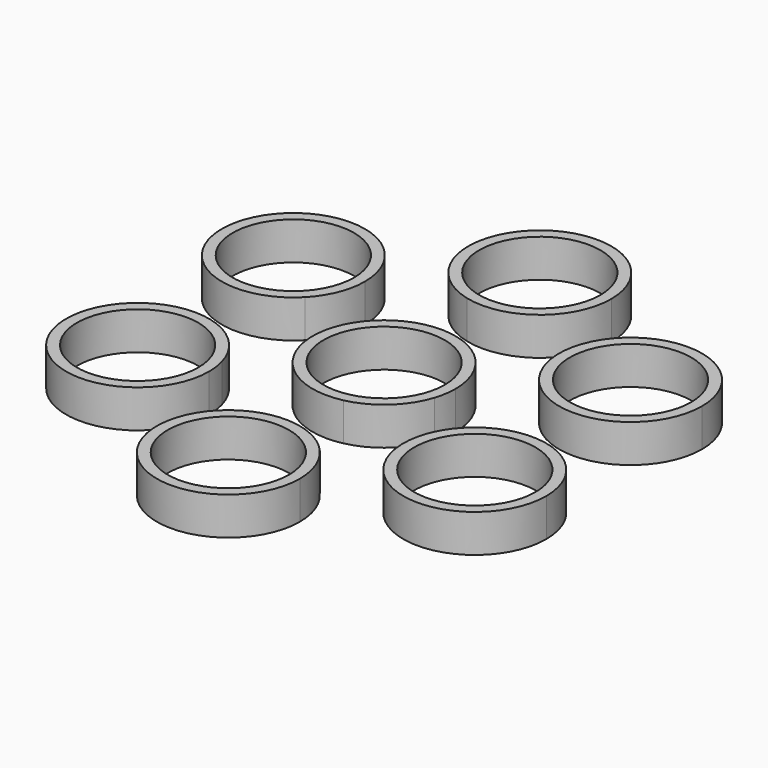
from build123d import *

# Parameters (mm, degrees)
F0_R     = 11.2
F1_DEPTH = 7


with BuildPart() as f1:
    # F0 (on Top) → F1 (new body)
    with BuildSketch(Plane.XY):
        with BuildLine():
            ThreePointArc((13.2, 35.95227), (-8.131373, 46.350384), (-3.181936, 23.141521))
            ThreePointArc((-3.181936, 23.141521), (8.131373, 25.554156), (13.2, 35.95227))
        make_face()
        with Locations((0, 35.95227)):
            Circle(F0_R, mode=Mode.SUBTRACT)
        with BuildLine():
            ThreePointArc((-17.935579, 17.976135), (-43.376612, 22.91548), (-21.632113, 8.815123))
            ThreePointArc((-21.632113, 8.815123), (-18.894547, 13.03679), (-17.935579, 17.976135))
        make_face()
        with Locations((-31.135579, 17.976135)):
            Circle(F0_R, mode=Mode.SUBTRACT)
        with BuildLine():
            ThreePointArc((-17.935579, -17.976135), (-18.064862, -16.133217), (-18.450177, -14.326398))
            ThreePointArc((-18.450177, -14.326398), (-19.8913, -11.061934), (-22.154161, -8.302763))
            ThreePointArc((-22.154161, -8.302763), (-43.235057, -23.252747), (-17.935579, -17.976135))
        make_face()
        with Locations((-31.135579, -17.976135)):
            Circle(F0_R, mode=Mode.SUBTRACT)
        with BuildLine():
            ThreePointArc((12.56792, -4.035764), (13.041023, -2.042481), (13.2, 0))
            ThreePointArc((13.2, 0), (12.315097, 4.751671), (9.779034, 8.866256))
            ThreePointArc((9.779034, 8.866256), (4.035764, 12.56792), (-2.788886, 12.90202))
            ThreePointArc((-2.788886, 12.90202), (-8.866256, 9.779034), (-12.56792, 4.035764))
            ThreePointArc((-12.56792, 4.035764), (-12.90202, -2.788886), (-9.779034, -8.866256))
            ThreePointArc((-9.779034, -8.866256), (-4.035764, -12.56792), (2.788886, -12.90202))
            ThreePointArc((2.788886, -12.90202), (8.866256, -9.779034), (12.56792, -4.035764))
        make_face()
        Circle(F0_R, mode=Mode.SUBTRACT)
        with BuildLine():
            ThreePointArc((44.335579, 17.976135), (29.292661, 31.046852), (18.450177, 14.326398))
            ThreePointArc((18.450177, 14.326398), (19.8913, 11.061934), (22.154161, 8.302763))
            ThreePointArc((22.154161, 8.302763), (36.412192, 5.876657), (44.335579, 17.976135))
        make_face()
        with Locations((31.135579, 17.976135)):
            Circle(F0_R, mode=Mode.SUBTRACT)
        with BuildLine():
            ThreePointArc((44.335579, -17.976135), (36.074924, -5.735103), (21.632113, -8.815123))
            ThreePointArc((21.632113, -8.815123), (19.525565, -11.695404), (18.267484, -15.034684))
            ThreePointArc((18.267484, -15.034684), (29.655521, -31.092896), (44.335579, -17.976135))
        make_face()
        with Locations((31.135579, -17.976135)):
            Circle(F0_R, mode=Mode.SUBTRACT)
        with BuildLine():
            ThreePointArc((13.2, -35.95227), (10.398114, -27.820897), (3.181936, -23.141521))
            ThreePointArc((3.181936, -23.141521), (-0.365734, -22.757338), (-3.886677, -23.337448))
            ThreePointArc((-3.886677, -23.337448), (-7.840149, -46.571689), (13.2, -35.95227))
        make_face()
        with Locations((0, -35.95227)):
            Circle(F0_R, mode=Mode.SUBTRACT)
    extrude(amount=F1_DEPTH)


solid = f1.part
